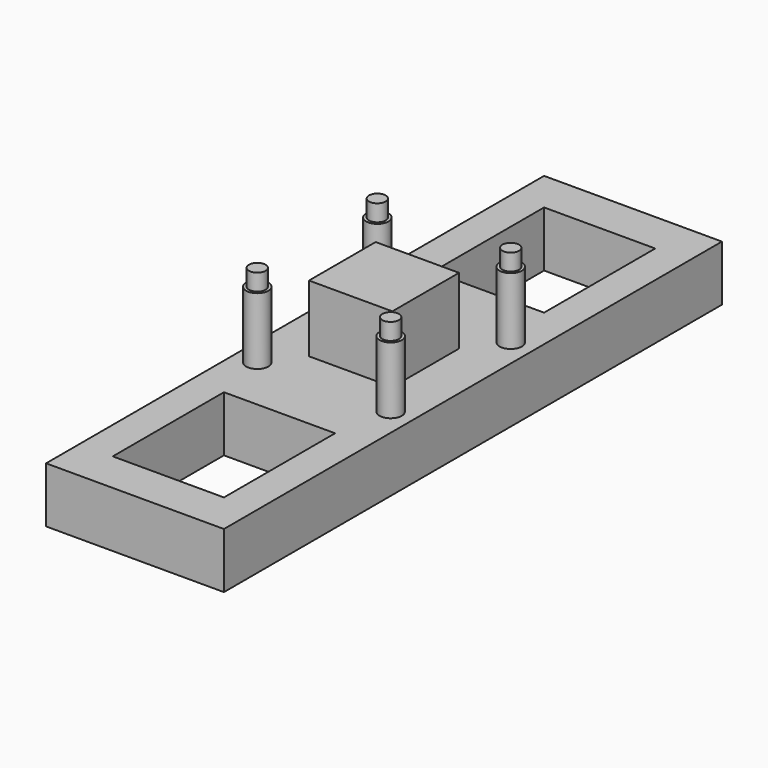
from build123d import *

# Parameters (mm, degrees)
SKETCH_W        = 32
SKETCH_H        = 32
PAD_DEPTH       = 10
SKETCH001_R     = 1.5
PAD001_DEPTH    = 15
SKETCH002_R     = 2
SKETCH002_W     = 15
SKETCH002_H     = 15
PAD002_DEPTH    = 12
SKETCH003_W     = 32
SKETCH003_H     = 10
PAD003_DEPTH    = 40
SKETCH004_W     = 32
SKETCH004_H     = 10
PAD004_DEPTH    = 40
SKETCH006_W     = 20
SKETCH006_H     = 25
POCKET_DEPTH    = 10.001
SKETCH005_W     = 20
SKETCH005_H     = 25
POCKET001_DEPTH = 10.001


with BuildPart() as part:
    # Sketch → Pad (new body)
    with BuildSketch(Plane.XY):
        with Locations((16, 16)):
            Rectangle(SKETCH_W, SKETCH_H)
    extrude(amount=PAD_DEPTH)

    # Sketch001 (on Face6 of Pad) → Pad001 (join)
    with BuildSketch(Plane.XY.offset(10)):
        with Locations((4, 29.5)):
            Circle(SKETCH001_R)
        with Locations((28, 29.5)):
            Circle(SKETCH001_R)
        with Locations((4, 2.5)):
            Circle(SKETCH001_R)
        with Locations((28, 2.5)):
            Circle(SKETCH001_R)
    extrude(amount=PAD001_DEPTH)

    # Sketch002 (on Face5 of Pad001) → Pad002 (join)
    with BuildSketch(Plane.XY.offset(10)):
        with Locations((4, 2.5)):
            Circle(SKETCH002_R)
        with Locations((28, 2.5)):
            Circle(SKETCH002_R)
        with Locations((4, 29.5)):
            Circle(SKETCH002_R)
        with Locations((28, 29.5)):
            Circle(SKETCH002_R)
        with Locations((16, 16)):
            Rectangle(SKETCH002_W, SKETCH002_H)
    extrude(amount=PAD002_DEPTH)

    # Sketch003 (on Face1 of Pad002) → Pad003 (join)
    with BuildSketch(Plane.XZ):
        with Locations((16, 5)):
            Rectangle(SKETCH003_W, SKETCH003_H)
    extrude(amount=PAD003_DEPTH)

    # Sketch004 (on Face2 of Pad003) → Pad004 (join)
    with BuildSketch(Plane(origin=(0, 32, 0), x_dir=(-1, 0, 0), z_dir=(0, 1, 0))):
        with Locations((-16, 5)):
            Rectangle(SKETCH004_W, SKETCH004_H)
    extrude(amount=PAD004_DEPTH)

    # Sketch006 (on Face6 of Pad004) → Pocket (cut, through all)
    with BuildSketch(Plane.XY.offset(10)):
        with Locations((16, 52)):
            Rectangle(SKETCH006_W, SKETCH006_H)
    extrude(amount=-POCKET_DEPTH, mode=Mode.SUBTRACT)

    # Sketch005 (on Face10 of Pad004) → Pocket001 (cut, through all)
    with BuildSketch(Plane.XY.offset(10)):
        with Locations((16, -20)):
            Rectangle(SKETCH005_W, SKETCH005_H)
    extrude(amount=-POCKET001_DEPTH, mode=Mode.SUBTRACT)


solid = part.part
